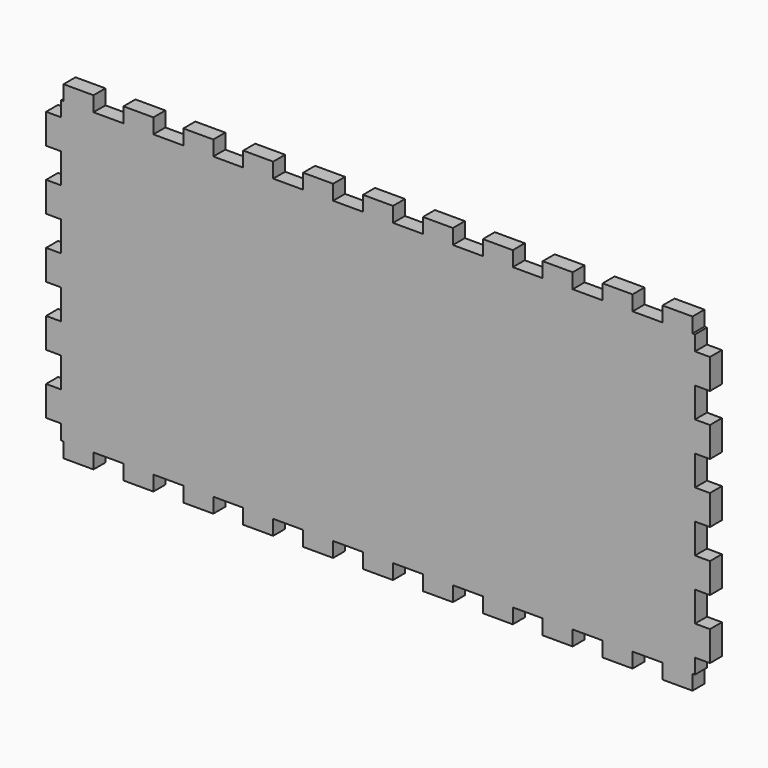
from build123d import *

# Parameters (mm, degrees)
F0_W     = 127
F0_H     = 60
F1_DEPTH = 3
F3_DEPTH = 3
F5_DEPTH = 3


with BuildPart() as f1:
    # F0 (on Front) → F1 (new body)
    with BuildSketch(Plane.XZ):
        Rectangle(F0_W, F0_H)
    extrude(amount=F1_DEPTH)

    # F2 (on face) → F3 (join, through all)
    with BuildSketch(Plane.XZ.offset(3)):
        Polygon((-3, 30), (0, 30), (3, 30), (3, 33), (0, 33), (-3, 33), align=None)
        Polygon((9, 30), (12, 30), (15, 30), (15, 33), (12, 33), (9, 33), align=None)
        Polygon((21, 30), (24, 30), (27, 30), (27, 33), (24, 33), (21, 33), align=None)
        Polygon((33, 30), (36, 30), (39, 30), (39, 33), (36, 33), (33, 33), align=None)
        Polygon((45, 30), (48, 30), (51, 30), (51, 33), (48, 33), (45, 33), align=None)
        Polygon((57, 30), (60, 30), (63, 30), (63, 33), (60, 33), (57, 33), align=None)
        Polygon((-36, 30), (-33, 30), (-33, 33), (-36, 33), (-39, 33), (-39, 30), align=None)
        Polygon((-63, 30), (-60, 30), (-57, 30), (-57, 33), (-60, 33), (-63, 33), align=None)
        Polygon((-45, 30), (-45, 33), (-48, 33), (-51, 33), (-51, 30), (-48, 30), align=None)
        Polygon((-27, 30), (-24, 30), (-21, 30), (-21, 33), (-24, 33), (-27, 33), align=None)
        Polygon((-15, 30), (-12, 30), (-9, 30), (-9, 33), (-12, 33), (-15, 33), align=None)
        Polygon((-9, -33), (-9, -30), (-12, -30), (-15, -30), (-15, -33), (-12, -33), align=None)
        Polygon((36, -30), (33, -30), (33, -33), (36, -33), (39, -33), (39, -30), align=None)
        Polygon((63, -30), (60, -30), (57, -30), (57, -33), (60, -33), (63, -33), align=None)
        Polygon((45, -30), (45, -33), (48, -33), (51, -33), (51, -30), (48, -30), align=None)
        Polygon((-36, -30), (-39, -30), (-39, -33), (-36, -33), (-33, -33), (-33, -30), align=None)
        Polygon((-57, -30), (-60, -30), (-63, -30), (-63, -33), (-60, -33), (-57, -33), align=None)
        Polygon((-51, -30), (-51, -33), (-48, -33), (-45, -33), (-45, -30), (-48, -30), align=None)
        Polygon((27, -30), (24, -30), (21, -30), (21, -33), (24, -33), (27, -33), align=None)
        Polygon((15, -30), (12, -30), (9, -30), (9, -33), (12, -33), (15, -33), align=None)
        Polygon((3, -30), (0, -30), (-3, -30), (-3, -33), (0, -33), (3, -33), align=None)
        Polygon((-27, -30), (-27, -33), (-24, -33), (-21, -33), (-21, -30), (-24, -30), align=None)
    extrude(amount=-F3_DEPTH)

    # F4 (on face) → F5 (join, through all)
    with BuildSketch(Plane.XZ.offset(3)):
        Polygon((-63.5, -3), (-63.5, 0), (-63.5, 3), (-66.5, 3), (-66.5, 0), (-66.5, -3), align=None)
        Polygon((-63.5, 9), (-63.5, 12), (-63.5, 15), (-66.5, 15), (-66.5, 12), (-66.5, 9), align=None)
        Polygon((-63.5, 21), (-63.5, 24), (-63.5, 27), (-66.5, 27), (-66.5, 24), (-66.5, 21), align=None)
        Polygon((-63.5, -24), (-63.5, -21), (-66.5, -21), (-66.5, -24), (-66.5, -27), (-63.5, -27), align=None)
        Polygon((-63.5, -15), (-63.5, -12), (-63.5, -9), (-66.5, -9), (-66.5, -12), (-66.5, -15), align=None)
        Polygon((66.5, 24), (66.5, 27), (63.5, 27), (63.5, 24), (63.5, 21), (66.5, 21), align=None)
        Polygon((63.5, -9), (63.5, -12), (63.5, -15), (66.5, -15), (66.5, -12), (66.5, -9), align=None)
        Polygon((63.5, -24), (63.5, -27), (66.5, -27), (66.5, -24), (66.5, -21), (63.5, -21), align=None)
        Polygon((66.5, 12), (66.5, 15), (63.5, 15), (63.5, 12), (63.5, 9), (66.5, 9), align=None)
        Polygon((63.5, 0), (63.5, -3), (66.5, -3), (66.5, 0), (66.5, 3), (63.5, 3), align=None)
    extrude(amount=-F5_DEPTH)


solid = f1.part
